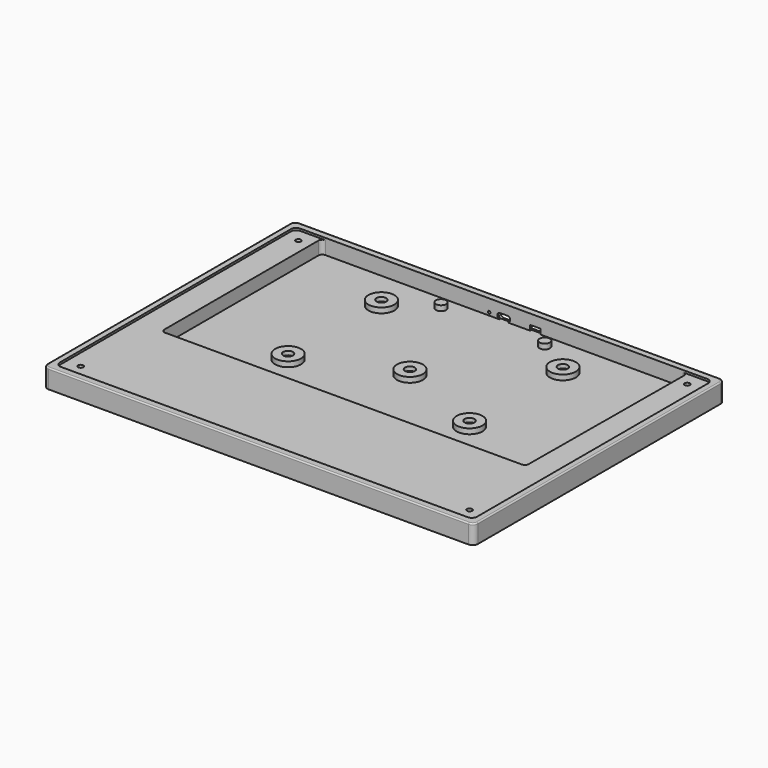
from build123d import *

# Parameters (mm, degrees)
PAD_DEPTH       = 14.7
POCKET_DEPTH    = 11.7
SKETCH012_R     = 10
SKETCH012_R_2   = 4
PAD003_DEPTH    = 7
SKETCH015_R     = 1
SKETCH015_W     = 8
SKETCH015_H     = 4
POCKET003_DEPTH = 6
POCKET004_DEPTH = 4.1
SKETCH013_R     = 3.75
POCKET001_DEPTH = 3
POCKET002_DEPTH = 1.6
SKETCH017_R     = 2
POCKET005_DEPTH = 5.2
FILLET_R        = 1


with BuildPart() as part:
    # Sketch → Pad (new body)
    with BuildSketch(Plane.XY):
        with BuildLine():
            Line((-162, 6), (162, 6))
            ThreePointArc((166, 2), (164.828427, 4.828427), (162, 6))
            Line((166, 2), (166, -232))
            ThreePointArc((162, -236), (164.828427, -234.828427), (166, -232))
            Line((162, -236), (-162, -236))
            ThreePointArc((-166, -232), (-164.828427, -234.828427), (-162, -236))
            Line((-166, -232), (-166, 2))
            ThreePointArc((-162, 6), (-164.828427, 4.828427), (-166, 2))
        make_face()
    extrude(amount=PAD_DEPTH)

    # Sketch001 → Pocket (cut)
    with BuildSketch(Plane.XY.offset(14.7)):
        with BuildLine():
            Line((-137.593576, 0.5), (138.406481, 0.5))
            ThreePointArc((141.406424, -2.518402), (140.534297, -0.385196), (138.406481, 0.5))
            Line((141.406424, -2.518402), (140.49521, -151.068141))
            ThreePointArc((137.495267, -154.049739), (139.610071, -153.177555), (140.49521, -151.068141))
            Line((137.495267, -154.049739), (-137.593576, -154.049739))
            ThreePointArc((-140.593576, -151.049739), (-139.714896, -153.171059), (-137.593576, -154.049739))
            Line((-140.593576, -151.049739), (-140.593576, -2.5))
            ThreePointArc((-137.593576, 0.5), (-139.714896, -0.37868), (-140.593576, -2.5))
        make_face()
    extrude(amount=-POCKET_DEPTH, mode=Mode.SUBTRACT)

    # Sketch012 → Pad003 (join)
    with BuildSketch(Plane.XY):
        with Locations((-70, -120)):
            Circle(SKETCH012_R)
        with Locations((70, -120)):
            Circle(SKETCH012_R)
        with Locations((70, -30)):
            Circle(SKETCH012_R)
        with Locations((0, -90)):
            Circle(SKETCH012_R)
        with Locations((-70, -30)):
            Circle(SKETCH012_R)
        with Locations((40, -10)):
            Circle(SKETCH012_R_2)
        with Locations((-40, -10)):
            Circle(SKETCH012_R_2)
    extrude(amount=PAD003_DEPTH)

    # Sketch015 → Pocket003 (cut)
    with BuildSketch(Plane.XZ):
        with Locations((-11.3, 5.25)):
            Circle(SKETCH015_R)
        with BuildLine():
            ThreePointArc((2.75, 3), (5, 5.25), (2.75, 7.5))
            Line((2.75, 7.5), (-2.75, 7.5))
            ThreePointArc((-2.75, 7.5), (-5, 5.25), (-2.75, 3))
            Line((-2.75, 3), (2.75, 3))
        make_face()
        with Locations((24.384758, 5)):
            Rectangle(SKETCH015_W, SKETCH015_H)
    extrude(amount=-POCKET003_DEPTH, mode=Mode.SUBTRACT)

    # Sketch016 → Pocket004 (cut)
    with BuildSketch(Plane.XZ.offset(-1.9)):
        with BuildLine():
            Line((-4, 9.425651), (28, 9.425651))
            ThreePointArc((31, 6.425651), (30.12132, 8.546971), (28, 9.425651))
            Line((31, 6.425651), (31, 4.425651))
            ThreePointArc((28, 1.425651), (30.12132, 2.304331), (31, 4.425651))
            Line((28, 1.425651), (-4, 1.425651))
            ThreePointArc((-7, 4.425651), (-6.12132, 2.304331), (-4, 1.425651))
            Line((-7, 4.425651), (-7, 6.425651))
            ThreePointArc((-4, 9.425651), (-6.12132, 8.546971), (-7, 6.425651))
        make_face()
    extrude(amount=-POCKET004_DEPTH, mode=Mode.SUBTRACT)

    # Sketch013 → Pocket001 (cut)
    with BuildSketch(Plane.XY.offset(7)):
        with Locations((-70, -30)):
            Circle(SKETCH013_R)
        with Locations((-70, -120)):
            Circle(SKETCH013_R)
        with Locations((70, -120)):
            Circle(SKETCH013_R)
        with Locations((70, -30)):
            Circle(SKETCH013_R)
        with Locations((0, -90)):
            Circle(SKETCH013_R)
    extrude(amount=-POCKET001_DEPTH, mode=Mode.SUBTRACT)

    # Sketch014 → Pocket002 (cut)
    with BuildSketch(Plane.XY.offset(14.7)):
        with BuildLine():
            Line((-157, 0.5), (157, 0.5))
            ThreePointArc((161, -3.5), (159.828427, -0.671573), (157, 0.5))
            Line((161, -3.5), (161, -226.5))
            ThreePointArc((157, -230.5), (159.828427, -229.328427), (161, -226.5))
            Line((157, -230.5), (-157, -230.5))
            ThreePointArc((-161, -226.5), (-159.828427, -229.328427), (-157, -230.5))
            Line((-161, -226.5), (-161, -3.5))
            ThreePointArc((-157, 0.5), (-159.828427, -0.671573), (-161, -3.5))
        make_face()
    extrude(amount=-POCKET002_DEPTH, mode=Mode.SUBTRACT)

    # Sketch017 → Pocket005 (cut)
    with BuildSketch(Plane.XY.offset(13.1)):
        with Locations((-150, -10)):
            Circle(SKETCH017_R)
        with Locations((-150, -220)):
            Circle(SKETCH017_R)
        with Locations((150, -10)):
            Circle(SKETCH017_R)
        with Locations((150, -220)):
            Circle(SKETCH017_R)
    extrude(amount=-POCKET005_DEPTH, mode=Mode.SUBTRACT)

    # Fillet
    fillet_edges = [part.edges().sort_by_distance(p)[0] for p in [
        (-166, -115, 14.7),
        (-164.828427, -234.828427, 14.7),
        (0, -236, 14.7),
        (0, 6, 14.7),
        (-164.828427, 4.828427, 14.7),
        (164.828427, 4.828427, 14.7),
        (166, -115, 14.7),
        (164.828427, -234.828427, 14.7),
    ]]
    fillet(fillet_edges, radius=FILLET_R)


solid = part.part
